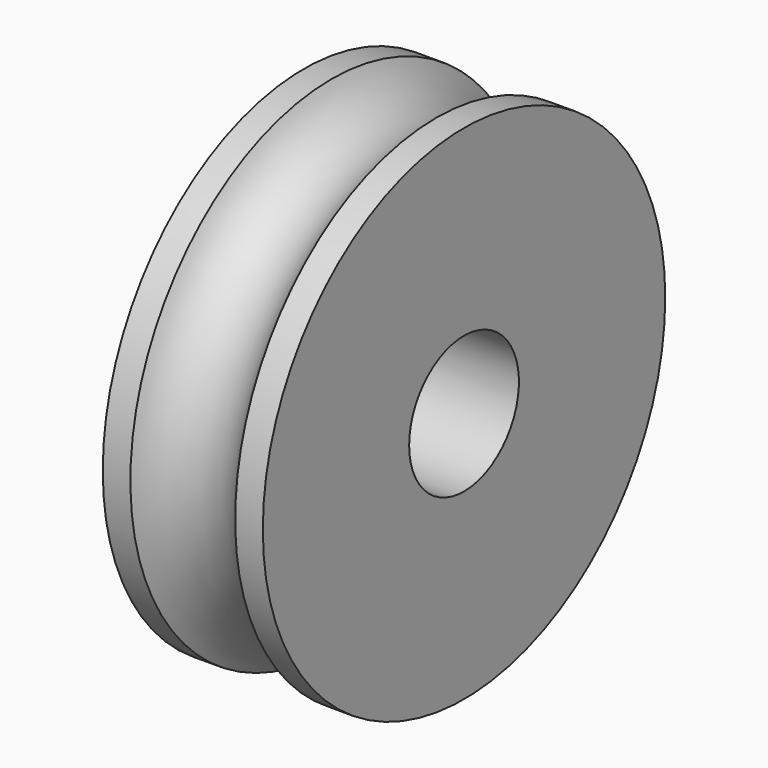
from build123d import *

# Parameters (mm, degrees)
F0_R          = 11
F1_DEPTH      = 3.5
F1_DEPTH_BACK = 3.5
F2_R          = 2.5
F4_R          = 3
F5_DEPTH      = 7


with BuildPart() as f1:
    # F0 (on Right) → F1 (new body, two sides)
    with BuildSketch(Plane.YZ) as f1_sk:
        Circle(F0_R)
    extrude(amount=F1_DEPTH)
    extrude(f1_sk.sketch, amount=-F1_DEPTH_BACK)

    # F2 (on Front) → F3 (revolve, cut)
    with BuildSketch(Plane.XZ):
        with Locations((0, 12)):
            Circle(F2_R)
    revolve(axis=Axis((-5, 0, 0), (-1, 0, 0)), mode=Mode.SUBTRACT)

    # F4 (on face) → F5 (cut, through all)
    with BuildSketch(Plane(origin=(-3.5, 0, 0), x_dir=(0, -1, 0), z_dir=(-1, 0, 0))):
        Circle(F4_R)
    extrude(amount=-F5_DEPTH, mode=Mode.SUBTRACT)


solid = f1.part
